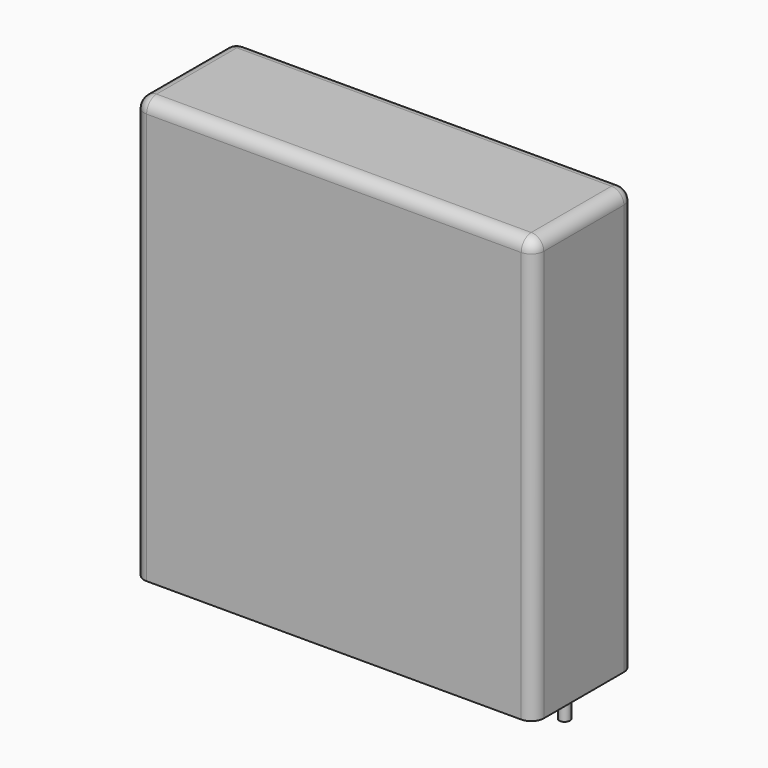
from build123d import *

# Parameters (mm, degrees)
SKETCH_W     = 41.5
SKETCH_H     = 13
PAD_DEPTH    = 44
FILLET_R     = 1.3
SKETCH001_R  = 0.55
PAD001_DEPTH = 3.2


with BuildPart() as fillet_body:
    # Sketch → Pad (new body)
    with BuildSketch(Plane.XY.offset(0.1)):
        with Locations((18.75, 0)):
            Rectangle(SKETCH_W, SKETCH_H)
    extrude(amount=PAD_DEPTH)

    # Fillet
    fillet_edges = [fillet_body.edges().sort_by_distance(p)[0] for p in [
        (-2, 0, 44.1),
        (-2, -6.5, 22.1),
        (18.75, -6.5, 44.1),
        (39.5, -6.5, 22.1),
        (39.5, 0, 44.1),
        (39.5, 6.5, 22.1),
        (18.75, 6.5, 44.1),
        (-2, 6.5, 22.1),
    ]]
    fillet(fillet_edges, radius=FILLET_R)


with BuildPart() as pad001:
    # Sketch001 → Pad001 (new body)
    with BuildSketch(Plane.XY.offset(0.5)):
        Circle(SKETCH001_R)
        with Locations((37.5, 0)):
            Circle(SKETCH001_R)
    extrude(amount=-PAD001_DEPTH)


solid = Compound([fillet_body.part, pad001.part])
